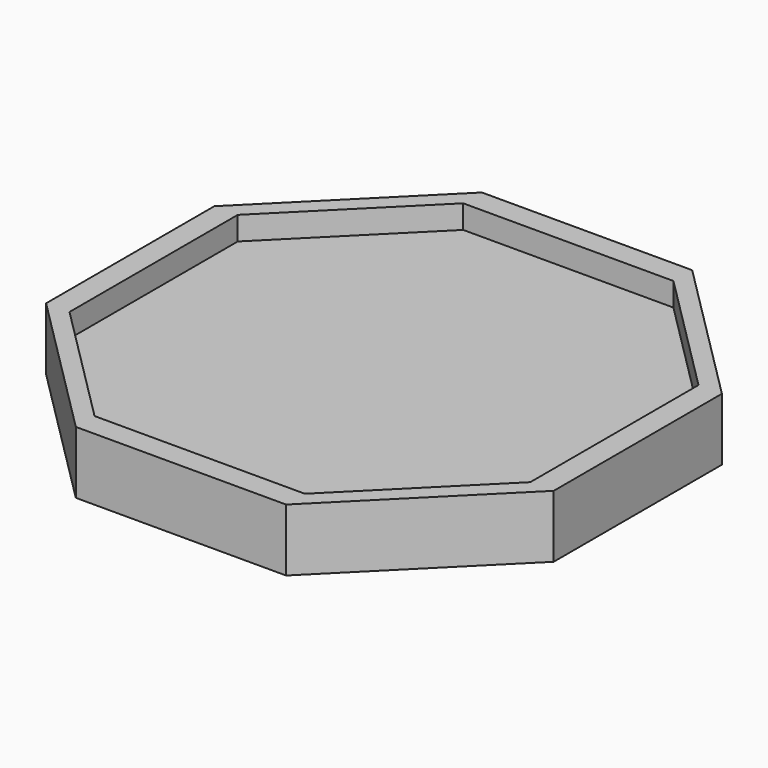
from build123d import *

# Parameters (mm, degrees)
F1_DEPTH = 5
F2_W     = 3
F2_H     = 26.923882
F2_W_2   = 26.923882
F2_H_2   = 3
F3_DEPTH = 3
F4_W     = 11
F4_H     = 11
F5_DEPTH = 2


with BuildPart() as f1:
    # F0 (on Top) → F1 (new body)
    with BuildSketch(Plane.XY):
        Polygon((-13.461941, -32.5), (13.461941, -32.5), (32.5, -13.461941), (32.5, 13.461941), (13.461941, 32.5), (-13.461941, 32.5), (-32.5, 13.461941), (-32.5, -13.461941), align=None)
    extrude(amount=F1_DEPTH)

    # F2 (on face) → F3 (join)
    with BuildSketch(Plane.XY.offset(5)):
        Polygon((-13.461941, 32.5), (-32.5, 13.461941), (-29.5, 13.461941), (-13.461941, 29.5), (13.461941, 29.5), (29.5, 13.461941), (29.5, -13.461941), (32.5, -13.461941), (32.5, 13.461941), (13.461941, 32.5), align=None)
        with Locations((-31, 0)):
            Rectangle(F2_W, F2_H)
        Polygon((-29.5, -13.461941), (-32.5, -13.461941), (-13.461941, -32.5), (-13.461941, -29.5), align=None)
        with Locations((0, -31)):
            Rectangle(F2_W_2, F2_H_2)
        Polygon((13.461941, -29.5), (13.461941, -32.5), (32.5, -13.461941), (29.5, -13.461941), align=None)
    extrude(amount=F3_DEPTH)

    # F4 (on face) → F5 (cut)
    with BuildSketch(Plane(origin=(0, 0, 0), x_dir=(1, 0, 0), z_dir=(0, 0, -1))):
        with Locations((-15, 15)):
            Rectangle(F4_W, F4_H)
        with Locations((15, 15)):
            Rectangle(F4_W, F4_H)
        with Locations((15, -15)):
            Rectangle(F4_W, F4_H)
        with Locations((-15, -15)):
            Rectangle(F4_W, F4_H)
    extrude(amount=-F5_DEPTH, mode=Mode.SUBTRACT)


solid = f1.part
